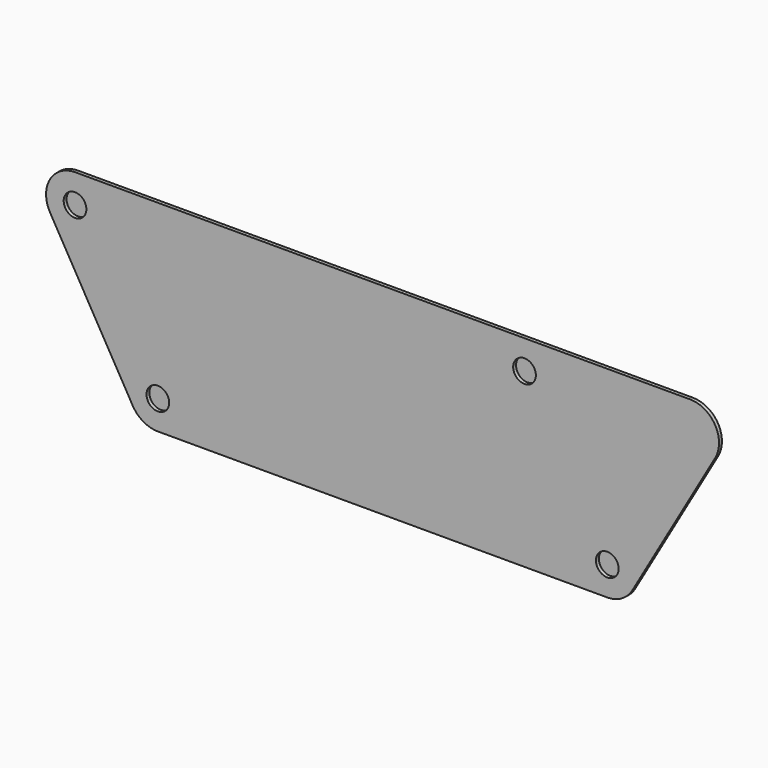
from build123d import *

# Parameters (mm, degrees)
F0_R     = 9.4
F1_DEPTH = 3
F3_DEPTH = 3
F4_R     = 9.4
F5_DEPTH = 3


with BuildPart() as f1:
    # F0 (on Front) → F1 (new body)
    with BuildSketch(Plane.XZ):
        with BuildLine():
            Line((441.592305, -95.844587), (382.792305, 6))
            ThreePointArc((382.792305, 6), (378.4, 10.392305), (372.4, 12))
            Line((372.4, 12), (0, 12))
            ThreePointArc((0, 12), (-10.392305, 6), (-10.392305, -6))
            Line((-10.392305, -6), (48.407695, -107.844587))
            Line((48.407695, -107.844587), (58.199497, -124.805603))
            ThreePointArc((58.199497, -124.805603), (62.591824, -129.198119), (68.591973, -130.8059))
            Line((68.591973, -130.8059), (440.991973, -130.8059))
            ThreePointArc((440.991973, -130.8059), (451.384192, -124.806048), (451.384449, -112.806197))
            Line((451.384449, -112.806197), (441.592305, -95.844587))
        make_face()
        with Locations((68.6, -118.818685)):
            Circle(F0_R, mode=Mode.SUBTRACT)
        with Locations((88.2, -118.818685)):
            Circle(F0_R, mode=Mode.SUBTRACT)
        with Locations((58.8, -101.844587)):
            Circle(F0_R, mode=Mode.SUBTRACT)
        with Locations((78.4, -101.844587)):
            Circle(F0_R, mode=Mode.SUBTRACT)
        with Locations((98, -101.844587)):
            Circle(F0_R, mode=Mode.SUBTRACT)
        with Locations((107.8, -118.818685)):
            Circle(F0_R, mode=Mode.SUBTRACT)
        with Locations((127.4, -118.818685)):
            Circle(F0_R, mode=Mode.SUBTRACT)
        with Locations((147, -118.818685)):
            Circle(F0_R, mode=Mode.SUBTRACT)
        with Locations((166.6, -118.818685)):
            Circle(F0_R, mode=Mode.SUBTRACT)
        with Locations((186.2, -118.818685)):
            Circle(F0_R, mode=Mode.SUBTRACT)
        with Locations((205.8, -118.818685)):
            Circle(F0_R, mode=Mode.SUBTRACT)
        with Locations((117.6, -101.844587)):
            Circle(F0_R, mode=Mode.SUBTRACT)
        with Locations((137.2, -101.844587)):
            Circle(F0_R, mode=Mode.SUBTRACT)
        with Locations((156.8, -101.844587)):
            Circle(F0_R, mode=Mode.SUBTRACT)
        with Locations((176.4, -101.844587)):
            Circle(F0_R, mode=Mode.SUBTRACT)
        with Locations((196, -101.844587)):
            Circle(F0_R, mode=Mode.SUBTRACT)
        with Locations((215.6, -101.844587)):
            Circle(F0_R, mode=Mode.SUBTRACT)
        with Locations((49, -84.87049)):
            Circle(F0_R, mode=Mode.SUBTRACT)
        with Locations((68.6, -84.87049)):
            Circle(F0_R, mode=Mode.SUBTRACT)
        with Locations((88.2, -84.87049)):
            Circle(F0_R, mode=Mode.SUBTRACT)
        with Locations((39.2, -67.896392)):
            Circle(F0_R, mode=Mode.SUBTRACT)
        with Locations((58.8, -67.896392)):
            Circle(F0_R, mode=Mode.SUBTRACT)
        with Locations((78.4, -67.896392)):
            Circle(F0_R, mode=Mode.SUBTRACT)
        with Locations((98, -67.896392)):
            Circle(F0_R, mode=Mode.SUBTRACT)
        with Locations((107.8, -84.87049)):
            Circle(F0_R, mode=Mode.SUBTRACT)
        with Locations((127.4, -84.87049)):
            Circle(F0_R, mode=Mode.SUBTRACT)
        with Locations((147, -84.87049)):
            Circle(F0_R, mode=Mode.SUBTRACT)
        with Locations((166.6, -84.87049)):
            Circle(F0_R, mode=Mode.SUBTRACT)
        with Locations((186.2, -84.87049)):
            Circle(F0_R, mode=Mode.SUBTRACT)
        with Locations((205.8, -84.87049)):
            Circle(F0_R, mode=Mode.SUBTRACT)
        with Locations((117.6, -67.896392)):
            Circle(F0_R, mode=Mode.SUBTRACT)
        with Locations((137.2, -67.896392)):
            Circle(F0_R, mode=Mode.SUBTRACT)
        with Locations((156.8, -67.896392)):
            Circle(F0_R, mode=Mode.SUBTRACT)
        with Locations((176.4, -67.896392)):
            Circle(F0_R, mode=Mode.SUBTRACT)
        with Locations((196, -67.896392)):
            Circle(F0_R, mode=Mode.SUBTRACT)
        with Locations((215.6, -67.896392)):
            Circle(F0_R, mode=Mode.SUBTRACT)
        with Locations((225.4, -118.818685)):
            Circle(F0_R, mode=Mode.SUBTRACT)
        with Locations((245, -118.818685)):
            Circle(F0_R, mode=Mode.SUBTRACT)
        with Locations((264.6, -118.818685)):
            Circle(F0_R, mode=Mode.SUBTRACT)
        with Locations((284.2, -118.818685)):
            Circle(F0_R, mode=Mode.SUBTRACT)
        with Locations((303.8, -118.818685)):
            Circle(F0_R, mode=Mode.SUBTRACT)
        with Locations((323.4, -118.818685)):
            Circle(F0_R, mode=Mode.SUBTRACT)
        with Locations((235.2, -101.844587)):
            Circle(F0_R, mode=Mode.SUBTRACT)
        with Locations((254.8, -101.844587)):
            Circle(F0_R, mode=Mode.SUBTRACT)
        with Locations((274.4, -101.844587)):
            Circle(F0_R, mode=Mode.SUBTRACT)
        with Locations((294, -101.844587)):
            Circle(F0_R, mode=Mode.SUBTRACT)
        with Locations((313.6, -101.844587)):
            Circle(F0_R, mode=Mode.SUBTRACT)
        with Locations((333.2, -101.844587)):
            Circle(F0_R, mode=Mode.SUBTRACT)
        with Locations((343, -118.818685)):
            Circle(F0_R, mode=Mode.SUBTRACT)
        with Locations((362.6, -118.818685)):
            Circle(F0_R, mode=Mode.SUBTRACT)
        with Locations((382.2, -118.818685)):
            Circle(F0_R, mode=Mode.SUBTRACT)
        with Locations((401.8, -118.818685)):
            Circle(F0_R, mode=Mode.SUBTRACT)
        with Locations((421.4, -118.818685)):
            Circle(F0_R, mode=Mode.SUBTRACT)
        with Locations((441, -118.818685)):
            Circle(F0_R, mode=Mode.SUBTRACT)
        with Locations((352.8, -101.844587)):
            Circle(F0_R, mode=Mode.SUBTRACT)
        with Locations((372.4, -101.844587)):
            Circle(F0_R, mode=Mode.SUBTRACT)
        with Locations((392, -101.844587)):
            Circle(F0_R, mode=Mode.SUBTRACT)
        with Locations((411.6, -101.844587)):
            Circle(F0_R, mode=Mode.SUBTRACT)
        with Locations((431.2, -101.844587)):
            Circle(F0_R, mode=Mode.SUBTRACT)
        with Locations((225.4, -84.87049)):
            Circle(F0_R, mode=Mode.SUBTRACT)
        with Locations((245, -84.87049)):
            Circle(F0_R, mode=Mode.SUBTRACT)
        with Locations((264.6, -84.87049)):
            Circle(F0_R, mode=Mode.SUBTRACT)
        with Locations((284.2, -84.87049)):
            Circle(F0_R, mode=Mode.SUBTRACT)
        with Locations((303.8, -84.87049)):
            Circle(F0_R, mode=Mode.SUBTRACT)
        with Locations((323.4, -84.87049)):
            Circle(F0_R, mode=Mode.SUBTRACT)
        with Locations((235.2, -67.896392)):
            Circle(F0_R, mode=Mode.SUBTRACT)
        with Locations((254.8, -67.896392)):
            Circle(F0_R, mode=Mode.SUBTRACT)
        with Locations((274.4, -67.896392)):
            Circle(F0_R, mode=Mode.SUBTRACT)
        with Locations((294, -67.896392)):
            Circle(F0_R, mode=Mode.SUBTRACT)
        with Locations((313.6, -67.896392)):
            Circle(F0_R, mode=Mode.SUBTRACT)
        with Locations((333.2, -67.896392)):
            Circle(F0_R, mode=Mode.SUBTRACT)
        with Locations((343, -84.87049)):
            Circle(F0_R, mode=Mode.SUBTRACT)
        with Locations((362.6, -84.87049)):
            Circle(F0_R, mode=Mode.SUBTRACT)
        with Locations((382.2, -84.87049)):
            Circle(F0_R, mode=Mode.SUBTRACT)
        with Locations((401.8, -84.87049)):
            Circle(F0_R, mode=Mode.SUBTRACT)
        with Locations((421.4, -84.87049)):
            Circle(F0_R, mode=Mode.SUBTRACT)
        with Locations((352.8, -67.896392)):
            Circle(F0_R, mode=Mode.SUBTRACT)
        with Locations((372.4, -67.896392)):
            Circle(F0_R, mode=Mode.SUBTRACT)
        with Locations((392, -67.896392)):
            Circle(F0_R, mode=Mode.SUBTRACT)
        with Locations((411.6, -67.896392)):
            Circle(F0_R, mode=Mode.SUBTRACT)
        with Locations((29.4, -50.922294)):
            Circle(F0_R, mode=Mode.SUBTRACT)
        with Locations((49, -50.922294)):
            Circle(F0_R, mode=Mode.SUBTRACT)
        with Locations((68.6, -50.922294)):
            Circle(F0_R, mode=Mode.SUBTRACT)
        with Locations((88.2, -50.922294)):
            Circle(F0_R, mode=Mode.SUBTRACT)
        with Locations((19.6, -33.948196)):
            Circle(F0_R, mode=Mode.SUBTRACT)
        with Locations((39.2, -33.948196)):
            Circle(F0_R, mode=Mode.SUBTRACT)
        with Locations((58.8, -33.948196)):
            Circle(F0_R, mode=Mode.SUBTRACT)
        with Locations((78.4, -33.948196)):
            Circle(F0_R, mode=Mode.SUBTRACT)
        with Locations((98, -33.948196)):
            Circle(F0_R, mode=Mode.SUBTRACT)
        with Locations((107.8, -50.922294)):
            Circle(F0_R, mode=Mode.SUBTRACT)
        with Locations((127.4, -50.922294)):
            Circle(F0_R, mode=Mode.SUBTRACT)
        with Locations((147, -50.922294)):
            Circle(F0_R, mode=Mode.SUBTRACT)
        with Locations((166.6, -50.922294)):
            Circle(F0_R, mode=Mode.SUBTRACT)
        with Locations((186.2, -50.922294)):
            Circle(F0_R, mode=Mode.SUBTRACT)
        with Locations((205.8, -50.922294)):
            Circle(F0_R, mode=Mode.SUBTRACT)
        with Locations((117.6, -33.948196)):
            Circle(F0_R, mode=Mode.SUBTRACT)
        with Locations((137.2, -33.948196)):
            Circle(F0_R, mode=Mode.SUBTRACT)
        with Locations((156.8, -33.948196)):
            Circle(F0_R, mode=Mode.SUBTRACT)
        with Locations((176.4, -33.948196)):
            Circle(F0_R, mode=Mode.SUBTRACT)
        with Locations((196, -33.948196)):
            Circle(F0_R, mode=Mode.SUBTRACT)
        with Locations((215.6, -33.948196)):
            Circle(F0_R, mode=Mode.SUBTRACT)
        with Locations((9.8, -16.974098)):
            Circle(F0_R, mode=Mode.SUBTRACT)
        with Locations((29.4, -16.974098)):
            Circle(F0_R, mode=Mode.SUBTRACT)
        with Locations((49, -16.974098)):
            Circle(F0_R, mode=Mode.SUBTRACT)
        with Locations((68.6, -16.974098)):
            Circle(F0_R, mode=Mode.SUBTRACT)
        with Locations((88.2, -16.974098)):
            Circle(F0_R, mode=Mode.SUBTRACT)
        Circle(F0_R, mode=Mode.SUBTRACT)
        with Locations((19.6, 0)):
            Circle(F0_R, mode=Mode.SUBTRACT)
        with Locations((39.2, 0)):
            Circle(F0_R, mode=Mode.SUBTRACT)
        with Locations((58.8, 0)):
            Circle(F0_R, mode=Mode.SUBTRACT)
        with Locations((78.4, 0)):
            Circle(F0_R, mode=Mode.SUBTRACT)
        with Locations((98, 0)):
            Circle(F0_R, mode=Mode.SUBTRACT)
        with Locations((107.8, -16.974098)):
            Circle(F0_R, mode=Mode.SUBTRACT)
        with Locations((127.4, -16.974098)):
            Circle(F0_R, mode=Mode.SUBTRACT)
        with Locations((147, -16.974098)):
            Circle(F0_R, mode=Mode.SUBTRACT)
        with Locations((166.6, -16.974098)):
            Circle(F0_R, mode=Mode.SUBTRACT)
        with Locations((186.2, -16.974098)):
            Circle(F0_R, mode=Mode.SUBTRACT)
        with Locations((205.8, -16.974098)):
            Circle(F0_R, mode=Mode.SUBTRACT)
        with Locations((117.6, 0)):
            Circle(F0_R, mode=Mode.SUBTRACT)
        with Locations((137.2, 0)):
            Circle(F0_R, mode=Mode.SUBTRACT)
        with Locations((156.8, 0)):
            Circle(F0_R, mode=Mode.SUBTRACT)
        with Locations((176.4, 0)):
            Circle(F0_R, mode=Mode.SUBTRACT)
        with Locations((196, 0)):
            Circle(F0_R, mode=Mode.SUBTRACT)
        with Locations((215.6, 0)):
            Circle(F0_R, mode=Mode.SUBTRACT)
        with Locations((225.4, -50.922294)):
            Circle(F0_R, mode=Mode.SUBTRACT)
        with Locations((245, -50.922294)):
            Circle(F0_R, mode=Mode.SUBTRACT)
        with Locations((264.6, -50.922294)):
            Circle(F0_R, mode=Mode.SUBTRACT)
        with Locations((284.2, -50.922294)):
            Circle(F0_R, mode=Mode.SUBTRACT)
        with Locations((303.8, -50.922294)):
            Circle(F0_R, mode=Mode.SUBTRACT)
        with Locations((323.4, -50.922294)):
            Circle(F0_R, mode=Mode.SUBTRACT)
        with Locations((235.2, -33.948196)):
            Circle(F0_R, mode=Mode.SUBTRACT)
        with Locations((254.8, -33.948196)):
            Circle(F0_R, mode=Mode.SUBTRACT)
        with Locations((274.4, -33.948196)):
            Circle(F0_R, mode=Mode.SUBTRACT)
        with Locations((294, -33.948196)):
            Circle(F0_R, mode=Mode.SUBTRACT)
        with Locations((313.6, -33.948196)):
            Circle(F0_R, mode=Mode.SUBTRACT)
        with Locations((333.2, -33.948196)):
            Circle(F0_R, mode=Mode.SUBTRACT)
        with Locations((343, -50.922294)):
            Circle(F0_R, mode=Mode.SUBTRACT)
        with Locations((362.6, -50.922294)):
            Circle(F0_R, mode=Mode.SUBTRACT)
        with Locations((382.2, -50.922294)):
            Circle(F0_R, mode=Mode.SUBTRACT)
        with Locations((401.8, -50.922294)):
            Circle(F0_R, mode=Mode.SUBTRACT)
        with Locations((352.8, -33.948196)):
            Circle(F0_R, mode=Mode.SUBTRACT)
        with Locations((372.4, -33.948196)):
            Circle(F0_R, mode=Mode.SUBTRACT)
        with Locations((392, -33.948196)):
            Circle(F0_R, mode=Mode.SUBTRACT)
        with Locations((225.4, -16.974098)):
            Circle(F0_R, mode=Mode.SUBTRACT)
        with Locations((245, -16.974098)):
            Circle(F0_R, mode=Mode.SUBTRACT)
        with Locations((264.6, -16.974098)):
            Circle(F0_R, mode=Mode.SUBTRACT)
        with Locations((284.2, -16.974098)):
            Circle(F0_R, mode=Mode.SUBTRACT)
        with Locations((303.8, -16.974098)):
            Circle(F0_R, mode=Mode.SUBTRACT)
        with Locations((323.4, -16.974098)):
            Circle(F0_R, mode=Mode.SUBTRACT)
        with Locations((235.2, 0)):
            Circle(F0_R, mode=Mode.SUBTRACT)
        with Locations((254.8, 0)):
            Circle(F0_R, mode=Mode.SUBTRACT)
        with Locations((274.4, 0)):
            Circle(F0_R, mode=Mode.SUBTRACT)
        with Locations((294, 0)):
            Circle(F0_R, mode=Mode.SUBTRACT)
        with Locations((313.6, 0)):
            Circle(F0_R, mode=Mode.SUBTRACT)
        with Locations((333.2, 0)):
            Circle(F0_R, mode=Mode.SUBTRACT)
        with Locations((343, -16.974098)):
            Circle(F0_R, mode=Mode.SUBTRACT)
        with Locations((362.6, -16.974098)):
            Circle(F0_R, mode=Mode.SUBTRACT)
        with Locations((382.2, -16.974098)):
            Circle(F0_R, mode=Mode.SUBTRACT)
        with Locations((352.8, 0)):
            Circle(F0_R, mode=Mode.SUBTRACT)
        with Locations((372.4, 0)):
            Circle(F0_R, mode=Mode.SUBTRACT)
    extrude(amount=F1_DEPTH)


with BuildPart() as f3:
    # F2 (on face) → F3 (new body)
    with BuildSketch(Plane.XZ.offset(3)):
        with BuildLine():
            Line((372.4, 12), (0, 12))
            ThreePointArc((0, 12), (-10.392305, 6), (-10.392305, -6))
            Line((-10.392305, -6), (48.407695, -107.844587))
            Line((48.407695, -107.844587), (58.199497, -124.805603))
            ThreePointArc((58.199497, -124.805603), (62.591824, -129.198119), (68.591973, -130.8059))
            Line((68.591973, -130.8059), (440.991973, -130.8059))
            ThreePointArc((440.991973, -130.8059), (446.991973, -129.198205), (451.384278, -124.8059))
            Line((451.384278, -124.8059), (519.976896, -6))
            ThreePointArc((519.976896, -6), (519.976896, 6), (509.584591, 12))
            Line((509.584591, 12), (372.4, 12))
        make_face()
    extrude(amount=F3_DEPTH)


with BuildPart() as f5:
    # F4 (on face) → F5 (new body)
    with BuildSketch(Plane.XZ.offset(6)):
        with BuildLine():
            Line((509.584591, 23.999999), (0, 23.999999))
            ThreePointArc((0, 23.999999), (-20.784609, 11.999999), (-20.784609, -11.999999))
            Line((-20.784609, -11.999999), (38.015306, -113.844439))
            Line((38.015306, -113.844439), (47.807022, -130.805306))
            ThreePointArc((47.807022, -130.805306), (56.591677, -139.590337), (68.591973, -142.805899))
            Line((68.591973, -142.805899), (440.991973, -142.805899))
            ThreePointArc((440.991973, -142.805899), (452.991972, -139.590509), (461.776581, -130.805899))
            Line((461.776581, -130.805899), (530.3692, -11.999999))
            ThreePointArc((530.3692, -11.999999), (530.3692, 11.999999), (509.584591, 23.999999))
        make_face()
        with BuildLine():
            ThreePointArc((509.584591, 12), (519.976896, 6), (519.976896, -6))
            Line((519.976896, -6), (451.384278, -124.8059))
            ThreePointArc((451.384278, -124.8059), (446.991973, -129.198205), (440.991973, -130.8059))
            Line((440.991973, -130.8059), (68.591973, -130.8059))
            ThreePointArc((68.591973, -130.8059), (62.591824, -129.198119), (58.199497, -124.805603))
            Line((58.199497, -124.805603), (48.407695, -107.844587))
            Line((48.407695, -107.844587), (-10.392305, -6))
            ThreePointArc((-10.392305, -6), (-10.392305, 6), (0, 12))
            Line((0, 12), (509.584591, 12))
        make_face(mode=Mode.SUBTRACT)
        with BuildLine():
            Line((451.384278, -124.8059), (519.976896, -6))
            ThreePointArc((519.976896, -6), (519.976896, 6), (509.584591, 12))
            Line((509.584591, 12), (0, 12))
            ThreePointArc((0, 12), (-10.392305, 6), (-10.392305, -6))
            Line((-10.392305, -6), (48.407695, -107.844587))
            Line((48.407695, -107.844587), (58.199497, -124.805603))
            ThreePointArc((58.199497, -124.805603), (62.591824, -129.198119), (68.591973, -130.8059))
            Line((68.591973, -130.8059), (440.991973, -130.8059))
            ThreePointArc((440.991973, -130.8059), (446.991973, -129.198205), (451.384278, -124.8059))
        make_face()
        with Locations((68.6, -118.818685)):
            Circle(F4_R, mode=Mode.SUBTRACT)
        with Locations((441, -118.818685)):
            Circle(F4_R, mode=Mode.SUBTRACT)
        Circle(F4_R, mode=Mode.SUBTRACT)
        with Locations((372.4, 0)):
            Circle(F4_R, mode=Mode.SUBTRACT)
    extrude(amount=F5_DEPTH)


solid = Compound([f1.part, f3.part, f5.part])
